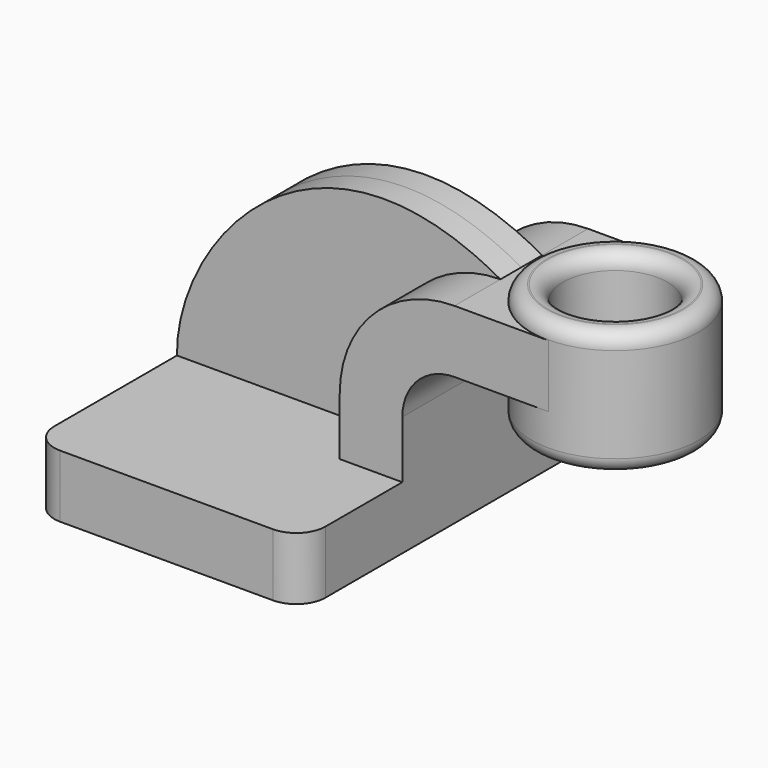
from build123d import *

# Parameters (mm, degrees)
F1_DEPTH = 63.5
F0_W     = 25.4
F0_H     = 19.05
F2_DEPTH = 25.4
F3_DEPTH = 7.9375
F5_R     = 8.89
F6_R     = 15.875
F7_DEPTH = 38.1
F8_R     = 4.572


with BuildPart() as f1:
    # F0 (on Front) → F1 (new body, symmetric)
    with BuildSketch(Plane.XZ):
        Polygon((-41.275, -9.525), (41.275, -9.525), (41.275, 9.525), (22.225, 9.525), (-41.275, 9.525), align=None)
    extrude(amount=F1_DEPTH, both=True)

    # F0 (on Front) → F2 (join, symmetric)
    with BuildSketch(Plane.XZ):
        with BuildLine():
            Line((22.225, 9.525), (41.275, 9.525))
            Line((41.275, 9.525), (41.275, 27.0002))
            ThreePointArc((41.275, 27.0002), (45.9246798487, 38.2255201513), (57.15, 42.8752))
            Line((57.15, 42.8752), (60.325, 42.8752))
            Line((60.325, 42.8752), (60.325, 61.9252))
            Line((60.325, 61.9252), (57.15, 61.9252))
            ThreePointArc((57.15, 61.9252), (32.4542956671, 51.6959043329), (22.225, 27.0002))
            Line((22.225, 27.0002), (22.225, 9.525))
        make_face()
        with Locations((73.025, 52.4002)):
            Rectangle(F0_W, F0_H)
    extrude(amount=F2_DEPTH, both=True)

    # F0 (on Front) → F3 (join, symmetric)
    with BuildSketch(Plane.XZ):
        with BuildLine():
            add(Edge.make_bspline(
                [(-41.275, 9.525), (-41.656780988, 42.0436710119), (0, 93.9072296023), (57.15, 61.9252)],
                knots=[0, 0, 0, 0, 111.5045361635, 111.5045361635, 111.5045361635, 111.5045361635], degree=3))
            Line((-41.275, 9.525), (22.225, 9.525))
            Line((22.225, 9.525), (22.225, 27.0002))
            ThreePointArc((22.225, 27.0002), (32.4542956671, 51.6959043329), (57.15, 61.9252))
        make_face()
    extrude(amount=F3_DEPTH, both=True)

    # F0 (on Front) → F4 (revolve)
    with BuildSketch(Plane.XZ):
        Polygon((85.725, 66.675), (85.725, 61.9252), (85.725, 42.8752), (85.725, 28.575), (111.125, 28.575), (111.125, 66.675), align=None)
    revolve(axis=Axis((85.725, 0, 47.625), (0, 0, 1)))

    # F5
    f5_edges = [f1.edges().sort_by_distance(p)[0] for p in [
        (-41.275, -63.5, 0),
        (41.275, -63.5, 0),
        (41.275, 63.5, 0),
        (-41.275, 63.5, 0),
    ]]
    fillet(f5_edges, radius=F5_R)

    # F6 (on face) → F7 (cut, through all)
    with BuildSketch(Plane.XY.offset(66.675)):
        with Locations((85.725, 0)):
            Circle(F6_R)
    extrude(amount=-F7_DEPTH, mode=Mode.SUBTRACT)

    # F8
    f8_edges = [f1.edges().sort_by_distance(p)[0] for p in [
        (69.85, 0, 66.675),
        (69.85, 0, 28.575),
        (60.325, 0, 66.675),
        (60.325, 0, 28.575),
    ]]
    fillet(f8_edges, radius=F8_R)


solid = f1.part
